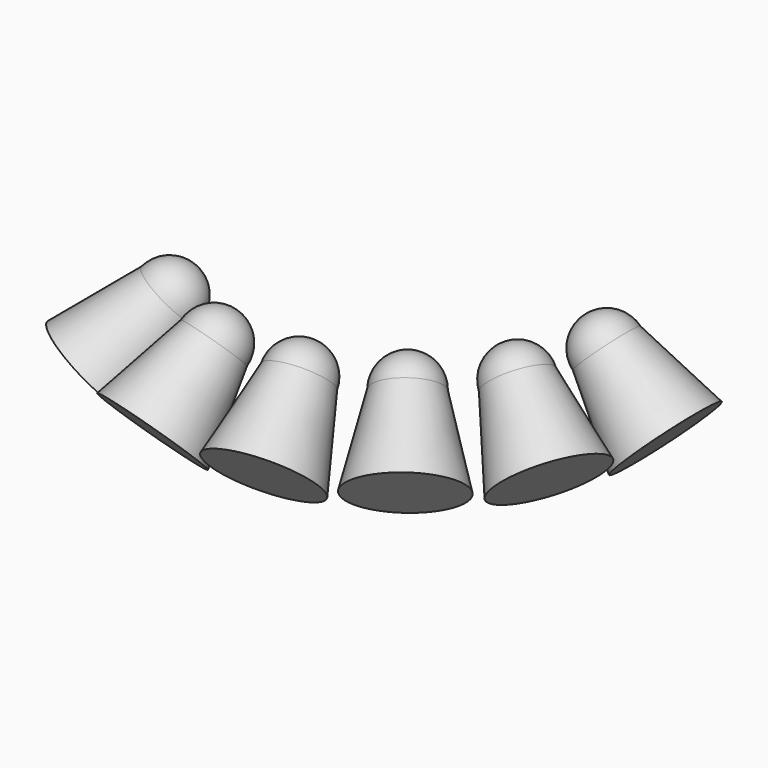
from build123d import *

# Parameters (mm, degrees)
FUSION003003005_PLACEMENT_ANGLE = 45
ARRAY002_COUNT                  = 6
ARRAY002_ANGLE                  = 130
ARRAY002_PLACEMENT_ANGLE        = 49


with BuildPart() as cone009:
    # Cone009 → Cone009 (revolve)
    with BuildSketch(Plane(origin=(0, 0, 0), x_dir=(-1, 0, 0), z_dir=(0, -1, 0))):
        Polygon((0, 0), (30, 0), (50, 80), (0, 80), align=None)
    revolve(axis=Axis((0, 0, 0), (0, 0, -1)))


with BuildPart() as array004:
    # Sphere003 → Sphere003 (revolve)
    with BuildSketch(Plane.XZ):
        with BuildLine():
            ThreePointArc((0, -30), (30, 0), (0, 30))
            Line((0, 30), (0, -30))
        make_face()
    revolve(axis=Axis((0, 0, 0), (0, 0, 1)))

    # Fusion003003005: union Cone009
    add(cone009.part)


with BuildPart() as array004_1:
    # Fusion003003005 placement: moved
    add(array004.part.moved(Location((-185, 0, 0))).rotate(Axis((-185, 0, 0), (0, 1, 0)), FUSION003003005_PLACEMENT_ANGLE))

    # Array002: Array004 ×6 about axis
    array002_axis = Axis((0, 0, 0), (0, 0, 1))


with BuildPart() as array004_2:
    add(array004_1.part)
    for i in range(1, ARRAY002_COUNT):
        add(array004_1.part.rotate(array002_axis, i * ARRAY002_ANGLE / (ARRAY002_COUNT - 1)))


with BuildPart() as array004_3:
    # Array002 placement: moved
    add(array004_2.part.moved(Location((0, 0, 1200))).rotate(Axis((0, 0, 1200), (0, 0, 1)), ARRAY002_PLACEMENT_ANGLE))


solid = array004_3.part
